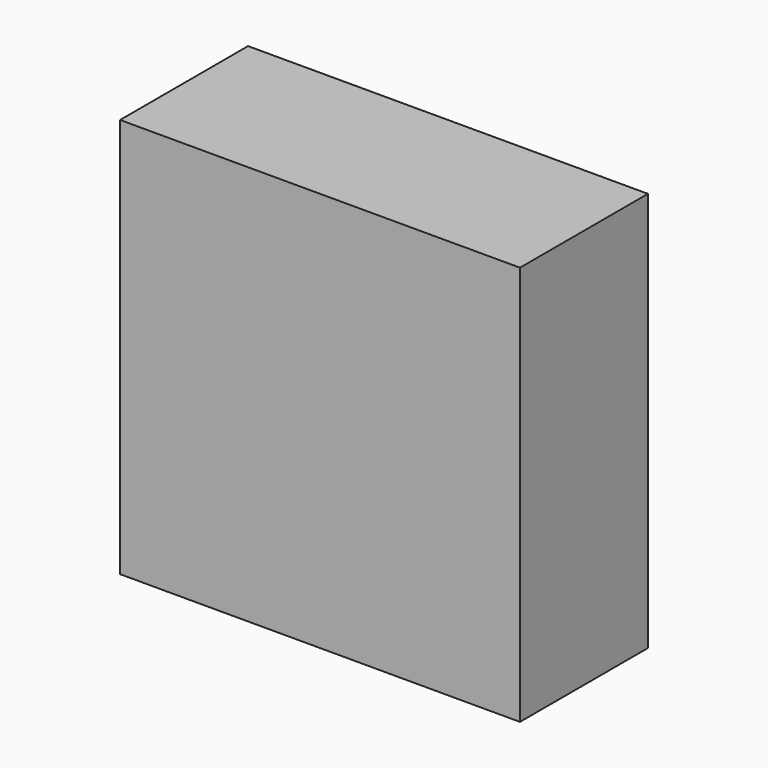
from build123d import *

# Parameters (mm, degrees)
F0_W     = 127
F0_H     = 127
F1_DEPTH = 50.8
F2_W     = 20.632386
F2_H     = 12.723304
F2_W_2   = 12.7
F2_H_2   = 25.4
F2_W_3   = 19.256888
F2_H_3   = 11.347811
F2_W_4   = 15.130423
F2_W_5   = 19.944644
F2_H_4   = 12.723305
F3_DEPTH = 5.08


with BuildPart() as f1:
    # F0 (on Front) → F1 (new body)
    with BuildSketch(Plane.XZ):
        with Locations((-10.951542, 9.803599)):
            Rectangle(F0_W, F0_H)
    extrude(amount=F1_DEPTH)

    # F2 (on face) → F3 (cut)
    with BuildSketch(Plane(origin=(0, 0, -53.696401), x_dir=(1, 0, 0), z_dir=(0, 0, -1))):
        with Locations((-56.395188, 37.99798)):
            Rectangle(F2_W, F2_H)
        with Locations((-22.191468, 12.7)):
            Rectangle(F2_W_2, F2_H_2)
        with Locations((6.877462, 37.310233)):
            Rectangle(F2_W_3, F2_H_3)
        with Locations((41.264772, 37.310233)):
            Rectangle(F2_W_4, F2_H_3)
        with Locations((26.478228, 14.614607)):
            Rectangle(F2_W_5, F2_H_4)
    extrude(amount=-F3_DEPTH, mode=Mode.SUBTRACT)


solid = f1.part
